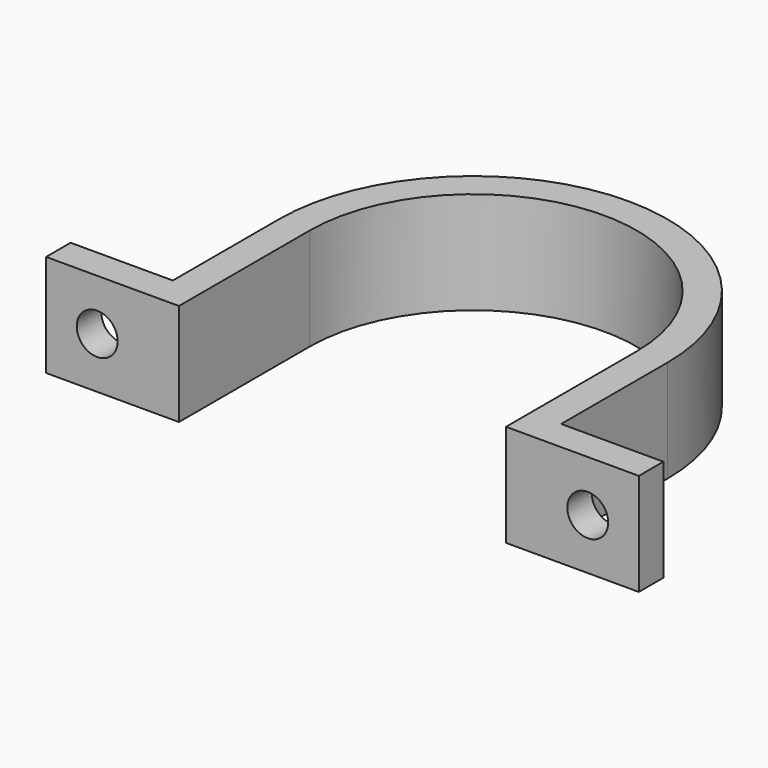
from build123d import *

# Parameters (mm, degrees)
CYLINDER001_R     = 2
CYLINDER001_DEPTH = 10
CYLINDER_R        = 2
CYLINDER_DEPTH    = 10
EXTRUDE_DEPTH     = 10


with BuildPart() as cylinder001:
    # Cylinder001 → Cylinder001 (new body)
    with BuildSketch(Plane(origin=(-24, -19, 5), x_dir=(1, 0, 0), z_dir=(0, 1, 0))):
        Circle(CYLINDER001_R)
    extrude(amount=CYLINDER001_DEPTH)


with BuildPart() as cylinder:
    # Cylinder → Cylinder (new body)
    with BuildSketch(Plane(origin=(24, -19, 5), x_dir=(1, 0, 0), z_dir=(0, 1, 0))):
        Circle(CYLINDER_R)
    extrude(amount=CYLINDER_DEPTH)


with BuildPart() as cut001:
    # Sketch → Extrude (new body)
    with BuildSketch(Plane.XY):
        with BuildLine():
            ThreePointArc((19, 0), (0, 19), (-19, 0))
            Line((-19, 0), (-19, -13))
            Line((-19, -13), (-29, -13))
            Line((-29, -13), (-29, -16))
            Line((-29, -16), (-16, -16))
            Line((-16, -16), (-16, 0))
            ThreePointArc((16, 0), (0, 16), (-16, 0))
            Line((16, -16), (16, 0))
            Line((29, -16), (16, -16))
            Line((29, -13), (29, -16))
            Line((19, -13), (29, -13))
            Line((19, 0), (19, -13))
        make_face()
    extrude(amount=EXTRUDE_DEPTH)

    # Cut: cut Cylinder
    add(cylinder.part, mode=Mode.SUBTRACT)

    # Cut001: cut Cylinder001
    add(cylinder001.part, mode=Mode.SUBTRACT)


solid = cut001.part
